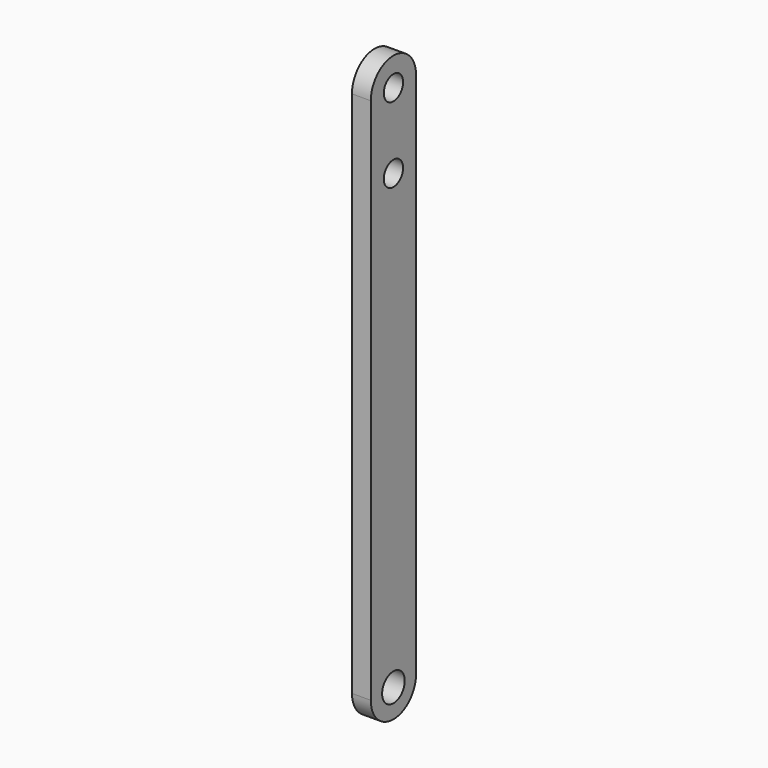
from build123d import *

# Parameters (mm, degrees)
F0_R     = 2.032
F0_R_2   = 2.38125
F1_DEPTH = 3.175


with BuildPart() as f1:
    # F0 (on Right) → F1 (new body)
    with BuildSketch(Plane.YZ):
        with BuildLine():
            Line((4.7625, 0), (4.7625, 88.9))
            ThreePointArc((4.7625, 88.9), (0, 93.6625), (-4.7625, 88.9))
            Line((-4.7625, 88.9), (-4.7625, 0))
            ThreePointArc((-4.7625, 0), (0, 4.7625), (4.7625, 0))
        make_face()
        with Locations((0, 76.2)):
            Circle(F0_R, mode=Mode.SUBTRACT)
        with Locations((0, 88.9)):
            Circle(F0_R, mode=Mode.SUBTRACT)
        with BuildLine():
            ThreePointArc((-4.7625, 0), (0, -4.7625), (4.7625, 0))
            ThreePointArc((4.7625, 0), (0, 4.7625), (-4.7625, 0))
        make_face()
        Circle(F0_R_2, mode=Mode.SUBTRACT)
    extrude(amount=F1_DEPTH)


solid = f1.part
